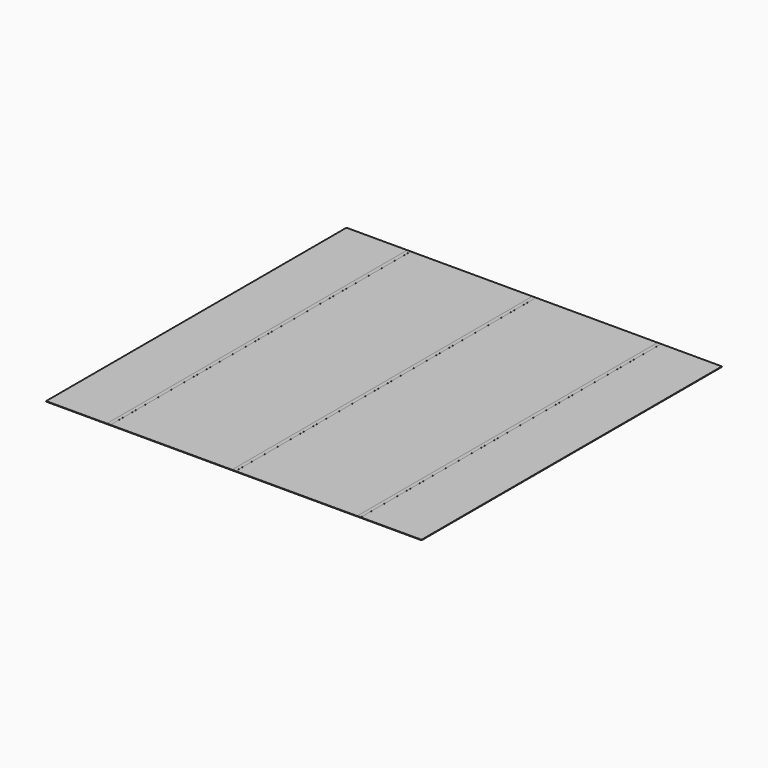
from build123d import *

# Parameters (mm, degrees)
F0_W     = 156
F0_H     = 156
F1_DEPTH = 0.2
F2_W     = 1.5
F2_H     = 156
F3_DEPTH = 0.01


with BuildPart() as f1:
    # F0 (on Top) → F1 (new body)
    with BuildSketch(Plane.XY):
        with Locations((78, 78)):
            Rectangle(F0_W, F0_H)
    extrude(amount=F1_DEPTH)


with BuildPart() as f3:
    # F2 (on face) → F3 (new body)
    with BuildSketch(Plane.XY.offset(0.2)):
        with Locations((26, 78)):
            Rectangle(F2_W, F2_H)
        with Locations((78, 78)):
            Rectangle(F2_W, F2_H)
        with Locations((130, 78)):
            Rectangle(F2_W, F2_H)
    extrude(amount=F3_DEPTH)


solid = Compound([f1.part, f3.part])
